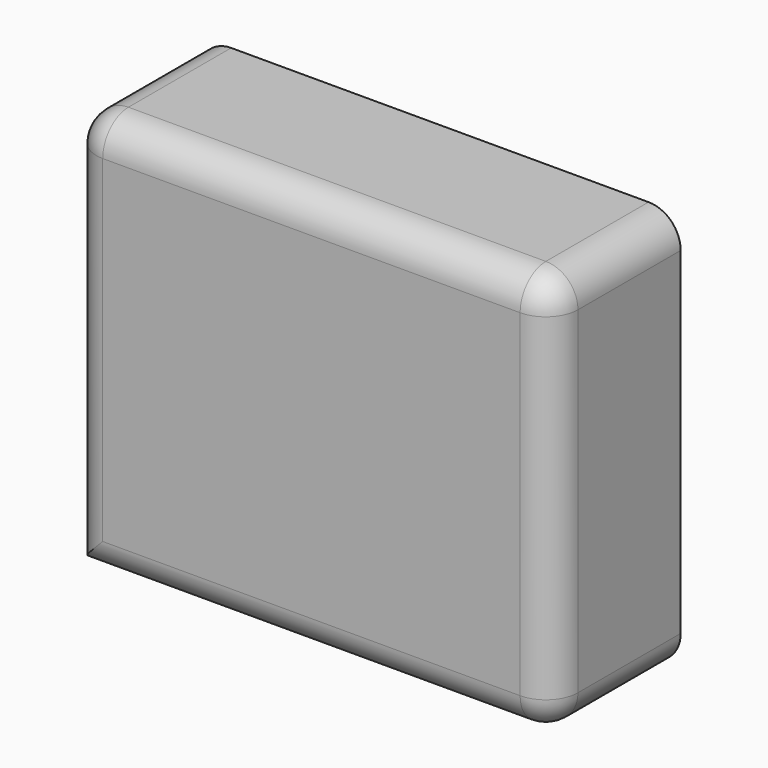
from build123d import *

# Parameters (mm, degrees)
F0_W     = 76.2
F0_H     = 63.5
F1_DEPTH = 25.4
F2_R     = 5.08


with BuildPart() as f1:
    # F0 (on Front) → F1 (new body)
    with BuildSketch(Plane.XZ):
        with Locations((11.68086, -0.684561)):
            Rectangle(F0_W, F0_H)
    extrude(amount=F1_DEPTH)

    # F2
    f2_edges = [f1.edges().sort_by_distance(p)[0] for p in [
        (49.78086, -12.7, 31.065439),
        (-26.41914, -12.7, 31.065439),
        (49.78086, -12.7, -32.434561),
        (11.68086, -25.4, 31.065439),
        (-26.41914, -25.4, -0.684561),
        (11.68086, -25.4, -32.434561),
        (49.78086, -25.4, -0.684561),
    ]]
    fillet(f2_edges, radius=F2_R)


solid = f1.part
